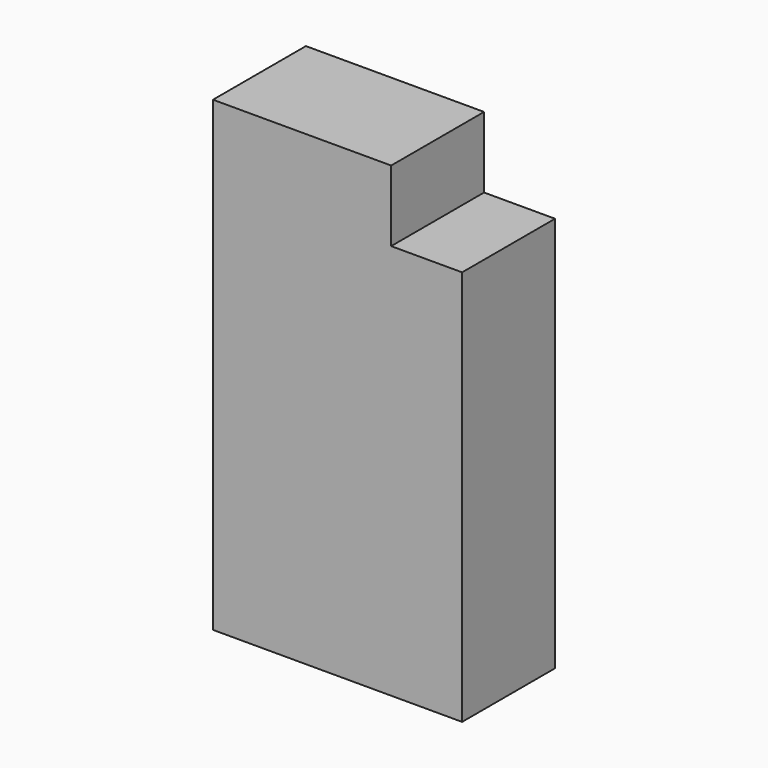
from build123d import *

# Parameters (mm, degrees)
F0_W     = 21.38239
F0_H     = 102.083694
F0_W_2   = 15.519483
F0_H_2   = 86.564213
F1_DEPTH = 25.4


with BuildPart() as f1:
    # F0 (on Front) → F1 (new body)
    with BuildSketch(Plane.XZ):
        with Locations((-10.691195, -0.344882)):
            Rectangle(F0_W, F0_H)
        Polygon((0, 50.696965), (0, -51.386729), (17.588751, -51.386729), (17.588751, 35.177484), (17.588751, 50.696965), align=None)
        with Locations((25.348492, -8.104622)):
            Rectangle(F0_W_2, F0_H_2)
    extrude(amount=F1_DEPTH)


solid = f1.part
